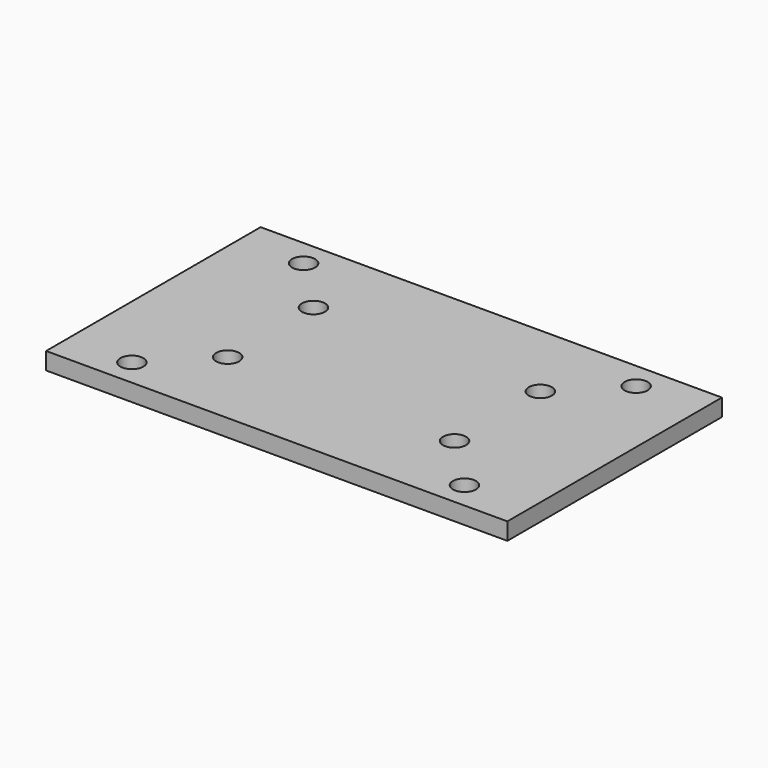
from build123d import *

# Parameters (mm, degrees)
F0_W     = 86
F0_H     = 3.2
F1_DEPTH = 25
F2_R     = 2.15
F3_DEPTH = 12.5
F4_R     = 2.15
F5_DEPTH = 12.5


with BuildPart() as f1:
    # F0 (on Front) → F1 (new body, symmetric)
    with BuildSketch(Plane.XZ):
        Rectangle(F0_W, F0_H)
    extrude(amount=F1_DEPTH, both=True)

    # F2 (on Top) → F3 (cut, symmetric)
    with BuildSketch(Plane.XY):
        with Locations((-31, -20)):
            Circle(F2_R)
        with Locations((31, -20)):
            Circle(F2_R)
        with Locations((-31, 20)):
            Circle(F2_R)
        with Locations((31, 20)):
            Circle(F2_R)
    extrude(amount=F3_DEPTH, both=True, mode=Mode.SUBTRACT)

    # F4 (on Top) → F5 (cut, symmetric)
    with BuildSketch(Plane.XY):
        with Locations((-21.15, 10)):
            Circle(F4_R)
        with Locations((-21.15, -10)):
            Circle(F4_R)
        with Locations((21.15, 10)):
            Circle(F4_R)
        with Locations((21.15, -10)):
            Circle(F4_R)
    extrude(amount=F5_DEPTH, both=True, mode=Mode.SUBTRACT)


solid = f1.part
